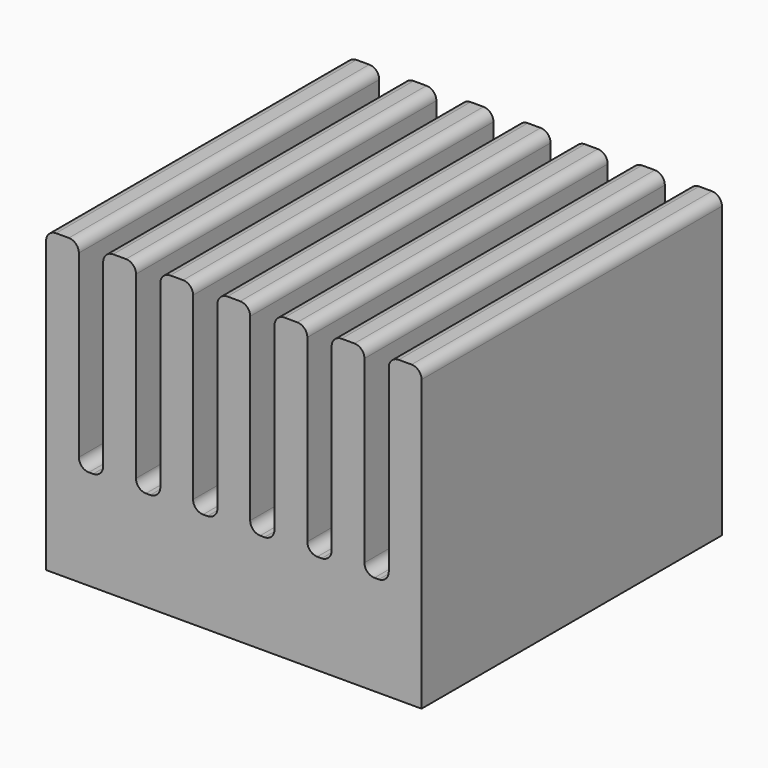
from build123d import *

# Parameters (mm, degrees)
F0_W     = 8.333958
F0_H     = 95.447298
F0_W_2   = 6.184932
F1_DEPTH = 25.4
F2_DEPTH = 50.8
F3_R     = 2.54


with BuildPart() as f1:
    # F0 (on Top) → F1 (new body)
    with BuildSketch(Plane.XY):
        with Locations((-43.55667, 0)):
            Rectangle(F0_W, F0_H)
        with Locations((43.55667, 0)):
            Rectangle(F0_W, F0_H)
        with Locations((36.297225, 0)):
            Rectangle(F0_W_2, F0_H)
        with Locations((21.778335, 0)):
            Rectangle(F0_W_2, F0_H)
        with Locations((7.259445, 0)):
            Rectangle(F0_W_2, F0_H)
        with Locations((-7.259445, 0)):
            Rectangle(F0_W_2, F0_H)
        with Locations((-21.778335, 0)):
            Rectangle(F0_W_2, F0_H)
        with Locations((-36.297225, 0)):
            Rectangle(F0_W_2, F0_H)
        with Locations((-29.03778, 0)):
            Rectangle(F0_W, F0_H)
        with Locations((-14.51889, 0)):
            Rectangle(F0_W, F0_H)
        Rectangle(F0_W, F0_H)
        with Locations((14.51889, 0)):
            Rectangle(F0_W, F0_H)
        with Locations((29.03778, 0)):
            Rectangle(F0_W, F0_H)
    extrude(amount=-F1_DEPTH)

    # F0 (on Top) → F2 (join)
    with BuildSketch(Plane.XY):
        with Locations((-43.55667, 0)):
            Rectangle(F0_W, F0_H)
        with Locations((-29.03778, 0)):
            Rectangle(F0_W, F0_H)
        with Locations((-14.51889, 0)):
            Rectangle(F0_W, F0_H)
        Rectangle(F0_W, F0_H)
        with Locations((14.51889, 0)):
            Rectangle(F0_W, F0_H)
        with Locations((29.03778, 0)):
            Rectangle(F0_W, F0_H)
        with Locations((43.55667, 0)):
            Rectangle(F0_W, F0_H)
    extrude(amount=F2_DEPTH)

    # F3
    f3_edges = [f1.edges().sort_by_distance(p)[0] for p in [
        (-47.723649, 0, 50.8),
        (-39.389691, 0, 50.8),
        (-33.204759, 0, 50.8),
        (-24.870801, 0, 50.8),
        (-18.685869, 0, 50.8),
        (-10.351911, 0, 50.8),
        (-4.166979, 0, 50.8),
        (4.166979, 0, 50.8),
        (10.351911, 0, 50.8),
        (18.685869, 0, 50.8),
        (24.870801, 0, 50.8),
        (33.204759, 0, 50.8),
        (39.389691, 0, 50.8),
        (47.723649, 0, 50.8),
        (33.204759, 0, 0),
        (18.685869, 0, 0),
        (4.166979, 0, 0),
        (-10.351911, 0, 0),
        (-24.870801, 0, 0),
        (-39.389691, 0, 0),
        (-33.204759, 0, 0),
        (-18.685869, 0, 0),
        (-4.166979, 0, 0),
        (10.351911, 0, 0),
        (24.870801, 0, 0),
        (39.389691, 0, 0),
    ]]
    fillet(f3_edges, radius=F3_R)


solid = f1.part
